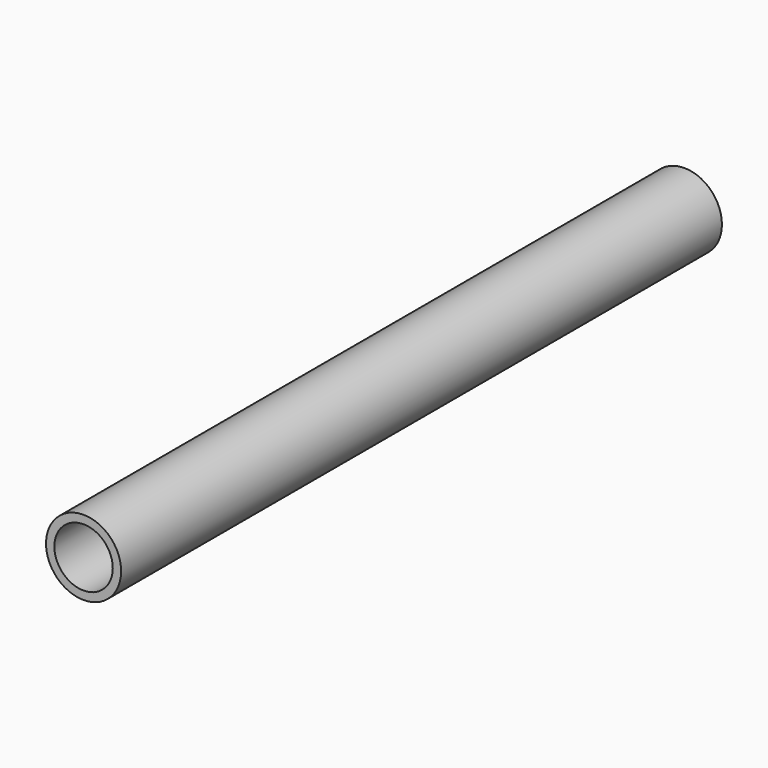
from build123d import *

# Parameters (mm, degrees)
F0_R     = 4.5
F1_DEPTH = 45
F2_T     = -1


with BuildPart() as f1:
    # F0 (on Front) → F1 (new body, symmetric)
    with BuildSketch(Plane.XZ):
        Circle(F0_R)
    extrude(amount=F1_DEPTH, both=True)

    # F2
    f2_openings = [f1.faces().sort_by_distance(p)[0] for p in [
        (0, -45, 0),
        (0, 45, 0),
    ]]
    offset(amount=F2_T, openings=f2_openings)


solid = f1.part
